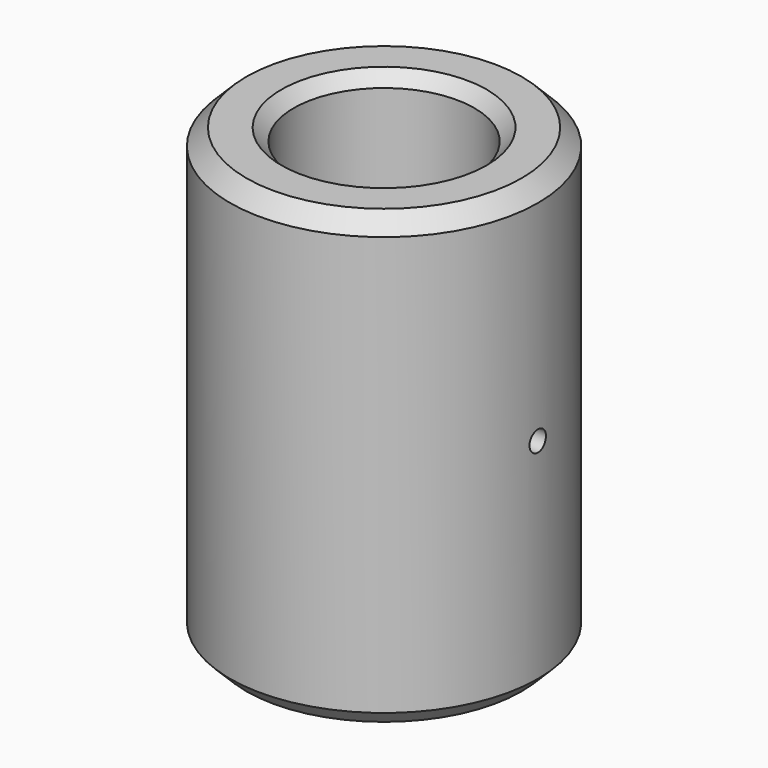
from build123d import *

# Parameters (mm, degrees)
F0_R     = 37.5
F0_R_2   = 22
F1_DEPTH = 110
F2_SIZE  = 4
F3_SIZE  = 3
F4_R     = 2.5
F5_DEPTH = 38.5000001


with BuildPart() as f1:
    # F0 (on Top) → F1 (new body)
    with BuildSketch(Plane.XY):
        Circle(F0_R)
        Circle(F0_R_2, mode=Mode.SUBTRACT)
    extrude(amount=F1_DEPTH)

    # F2
    f2_edges = [f1.edges().sort_by_distance(p)[0] for p in [
        (-37.5, 0, 110),
        (-37.5, 0, 0),
    ]]
    chamfer(f2_edges, length=F2_SIZE)

    # F3
    f3_edges = [f1.edges().sort_by_distance(p)[0] for p in [
        (-22, 0, 110),
        (-22, 0, 0),
    ]]
    chamfer(f3_edges, length=F3_SIZE)

    # F4 (on Right) → F5 (cut, up to face)
    with BuildSketch(Plane.YZ):
        with Locations((0, 55)):
            Circle(F4_R)
    extrude(amount=F5_DEPTH, mode=Mode.SUBTRACT)


solid = f1.part
